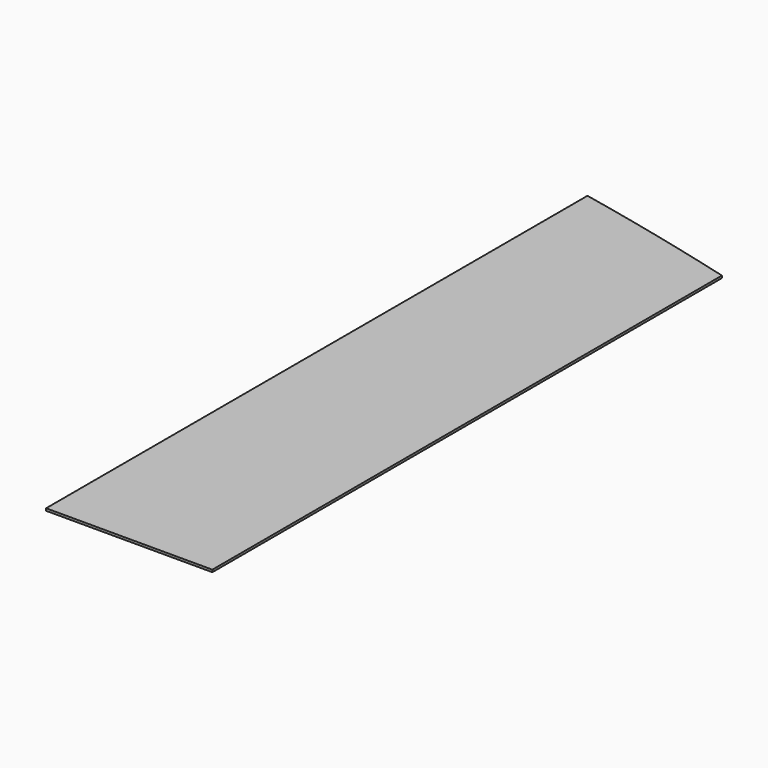
from build123d import *

# Parameters (mm, degrees)
F1_DEPTH = 25.4


with BuildPart() as f1:
    # F0 (on Top) → F1 (new body)
    with BuildSketch(Plane.XY):
        with BuildLine():
            Line((-1507.870855, 3398.714997), (-1507.870855, -4148.641003))
            Line((-1507.870855, -4148.641003), (-580.770855, -4148.641003))
            Line((-580.770855, -4148.641003), (-580.770855, 3190.688997))
            ThreePointArc((-580.770855, 3190.688997), (-1043.59554, 3297.934474), (-1507.870855, 3398.714997))
        make_face()
        with BuildLine():
            Line((-580.770855, 3190.688997), (-580.770855, -4148.641003))
            Line((-580.770855, -4148.641003), (346.329145, -4148.641003))
            Line((346.329145, -4148.641003), (346.329145, 2955.230997))
            ThreePointArc((346.329145, 2955.230997), (-116.39438, 3076.214183), (-580.770855, 3190.688997))
        make_face()
    extrude(amount=F1_DEPTH)


solid = f1.part
